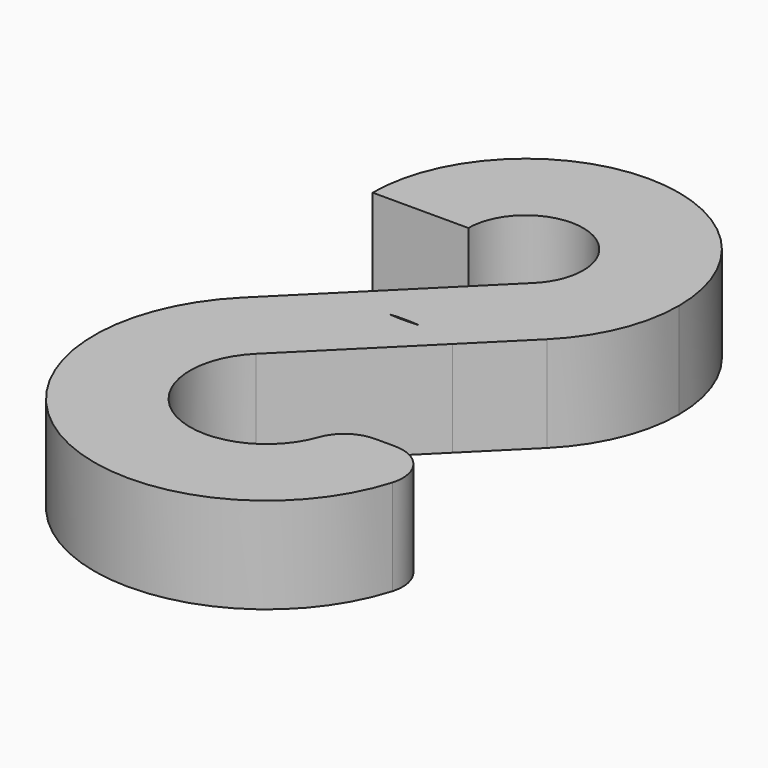
from build123d import *

# Parameters (mm, degrees)
F1_DEPTH = 5
F2_R     = 2


with BuildPart() as f1:
    # F0 (on Top) → F1 (new body)
    with BuildSketch(Plane.XY):
        with BuildLine():
            ThreePointArc((-3, 5.6729591845), (0, 8.6729591845), (3, 5.6729591845))
            ThreePointArc((3, 5.6729591845), (2.7699992103, 4.5209590217), (2.1152637499, 3.5455994903))
            Line((2.1152637499, 3.5455994903), (-3.1437101653, -1.6834724502))
            ThreePointArc((-3.1437101653, -1.6834724502), (-1.9996201414, -2.073105577), (-0.8098901638, -2.2859401064))
            ThreePointArc((-0.8098901638, -2.2859401064), (0, -2.2494259195), (0.8098901638, -2.2859401064))
            ThreePointArc((0.8098901638, -2.2859401064), (3.4218298698, -1.5582979913), (5.640703333, 0))
            ThreePointArc((5.640703333, 0), (7.3866645607, 2.6009587503), (8, 5.6729591845))
            ThreePointArc((8, 5.6729591845), (0, 13.6729591845), (-8, 5.6729591845))
            Line((-8, 5.6729591845), (-3, 5.6729591845))
        make_face()
        with BuildLine():
            ThreePointArc((-0.8098901638, -2.2859401064), (-1.9996201414, -2.073105577), (-3.1437101653, -1.6834724502))
            Line((-3.1437101653, -1.6834724502), (-6.3457912496, -4.867346837))
            ThreePointArc((-6.3457912496, -4.867346837), (-3.8035324765, -3.0926409708), (-0.8098901638, -2.2859401064))
        make_face()
        with BuildLine():
            Line((2.8967557262, -2.7283458082), (5.640703333, 0))
            ThreePointArc((5.640703333, 0), (3.4218298698, -1.5582979913), (0.8098901638, -2.2859401064))
            ThreePointArc((0.8098901638, -2.2859401064), (1.8664770664, -2.4450938404), (2.8967557262, -2.7283458082))
        make_face()
        with BuildLine():
            ThreePointArc((0.8098901638, -2.2859401064), (0, -2.3270408155), (-0.8098901638, -2.2859401064))
            ThreePointArc((-0.8098901638, -2.2859401064), (-3.8035324765, -3.0926409708), (-6.3457912496, -4.867346837))
            ThreePointArc((-6.3457912496, -4.867346837), (-3.4560004885, -19.5594235503), (9, -11.2494259195))
            Line((9, -11.2494259195), (4, -11.2494259195))
            ThreePointArc((4, -11.2494259195), (-1.5360002171, -14.9427581999), (-2.8203516665, -8.4129463273))
            Line((-2.8203516665, -8.4129463273), (2.8967557262, -2.7283458082))
            ThreePointArc((2.8967557262, -2.7283458082), (1.8664770664, -2.4450938404), (0.8098901638, -2.2859401064))
        make_face()
    extrude(amount=F1_DEPTH)

    # F2
    f2_edges = [f1.edges().sort_by_distance(p)[0] for p in [
        (4, -11.249426, 2.5),
        (9, -11.249426, 2.5),
    ]]
    fillet(f2_edges, radius=F2_R)


solid = f1.part
